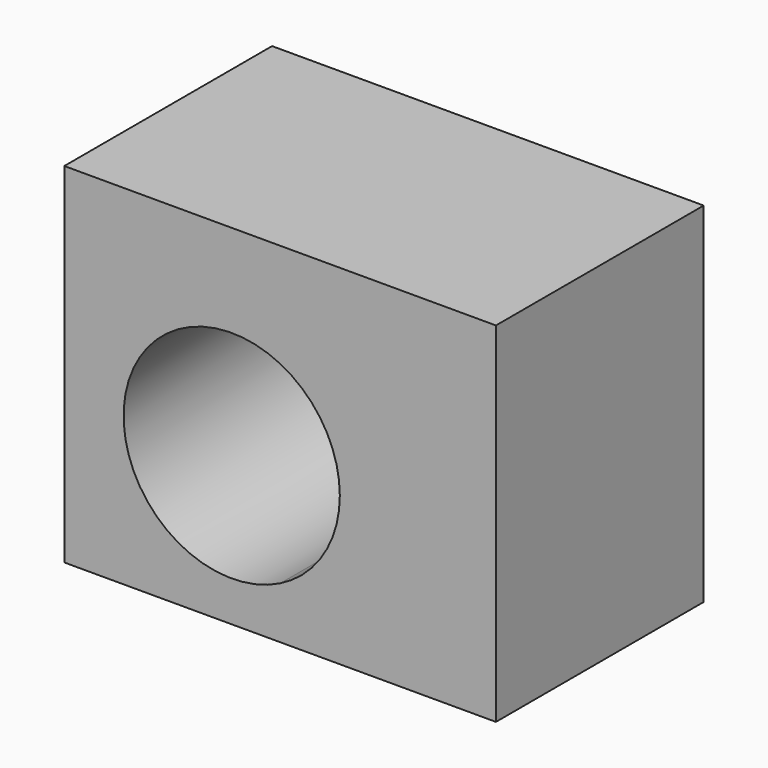
from build123d import *

# Parameters (mm, degrees)
F1_DEPTH = 50


with BuildPart() as f1:
    # F0 (on Front) → F1 (new body)
    with BuildSketch(Plane.XZ):
        with BuildLine():
            Line((3.880708, 38.61779), (-37.671275, 38.61779))
            Line((-37.671275, 38.61779), (-37.671275, -28.584737))
            Line((-37.671275, -28.584737), (3.880708, -28.584737))
            Line((3.880708, -28.584737), (3.880708, -18.612372))
            ThreePointArc((3.880708, -18.612372), (-26.25631, 0), (3.880708, 18.612372))
            Line((3.880708, 18.612372), (3.880708, 38.61779))
        make_face()
        with BuildLine():
            Line((45.432691, 38.61779), (3.880708, 38.61779))
            Line((3.880708, 38.61779), (3.880708, 18.612372))
            ThreePointArc((3.880708, 18.612372), (12.270213, 10.937914), (15.375554, 0))
            ThreePointArc((15.375554, 0), (12.270213, -10.937914), (3.880708, -18.612372))
            Line((3.880708, -18.612372), (3.880708, -28.584737))
            Line((3.880708, -28.584737), (45.432691, -28.584737))
            Line((45.432691, -28.584737), (45.432691, 38.61779))
        make_face()
    extrude(amount=F1_DEPTH)


solid = f1.part
